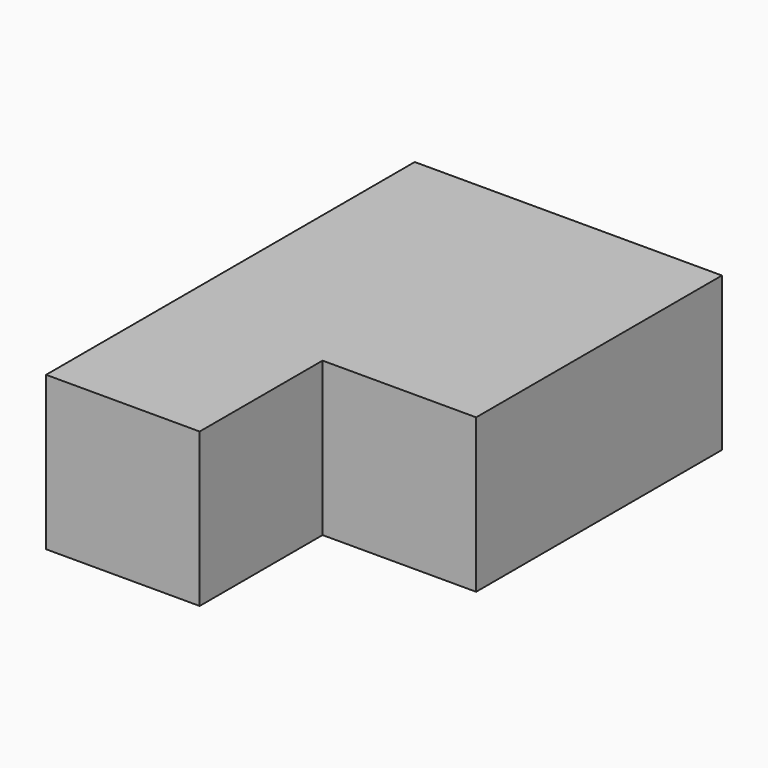
from build123d import *

# Parameters (mm, degrees)
PAD_DEPTH = 10


with BuildPart() as part:
    # Sketch → Pad (new body)
    with BuildSketch(Plane.XY):
        Polygon((-20, -10), (-20, 20), (0, 20), (0, 0), (-10, 0), (-10, -10), align=None)
    extrude(amount=PAD_DEPTH)


solid = part.part
